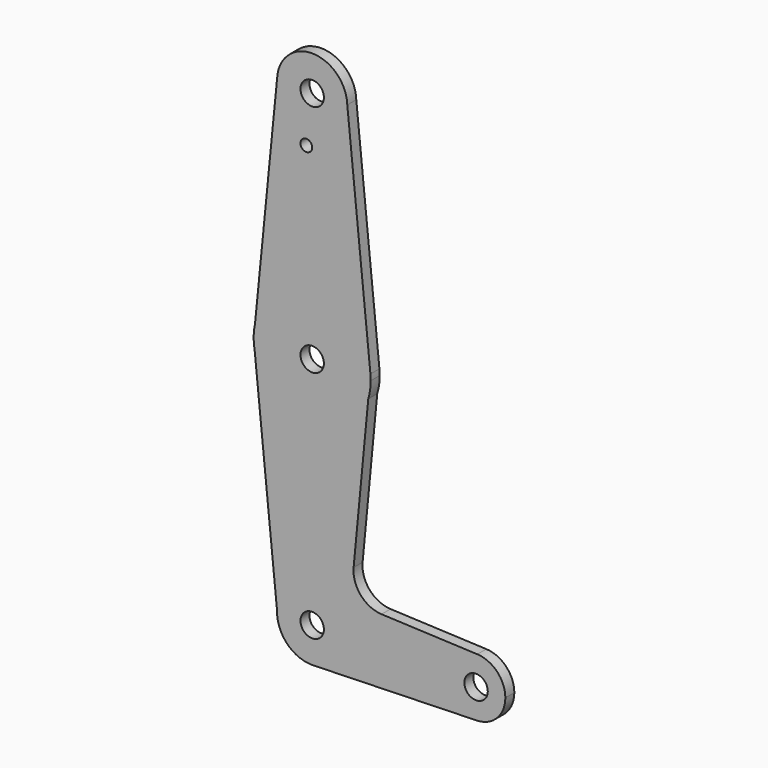
from build123d import *

# Parameters (mm, degrees)
F0_R     = 3.175
F0_R_2   = 1.5875
F1_DEPTH = 3.048


with BuildPart() as f1:
    # F0 (on Front) → F1 (new body)
    with BuildSketch(Plane.XZ):
        with BuildLine():
            ThreePointArc((-9.5097297278, 100.1845862784), (-0.2696751221, 90.1242705795), (9.525, 99.6454522461))
            ThreePointArc((9.525, 99.6454522461), (9.5238201928, 99.7953653394), (9.5202810634, 99.9452412949))
            ThreePointArc((9.5202810634, 99.9452412949), (0.1197887221, 109.1696989702), (-9.5097297278, 100.1845862784))
        make_face()
        with Locations((0, 99.6454522461)):
            Circle(F0_R, mode=Mode.SUBTRACT)
        with BuildLine():
            ThreePointArc((9.5202810634, 99.9452412949), (9.5238201928, 99.7953653394), (9.525, 99.6454522461))
            ThreePointArc((9.525, 99.6454522461), (-0.2696751221, 90.1242705795), (-9.5097297278, 100.1845862784))
            Line((-9.5097297278, 100.1845862784), (-15.5077525398, 39.540336068))
            ThreePointArc((-15.5077525398, 39.540336068), (0.9122205372, 51.9942212422), (15.7948542636, 37.7386263705))
            Line((15.7948542636, 37.7386263705), (9.5202810634, 99.9452412949))
        make_face()
        with Locations((-1.5875, 86.6684019566)):
            Circle(F0_R_2, mode=Mode.SUBTRACT)
        with BuildLine():
            Line((15.2064214472, 31.5869029408), (15.7948542636, 37.7386263705))
            ThreePointArc((15.7948542636, 37.7386263705), (0.9122205372, 51.9942212422), (-15.5077525398, 39.540336068))
            Line((-15.5077525398, 39.540336068), (-15.8723283432, 35.854217003))
            Line((-15.8723283432, 35.854217003), (-15.610768577, 33.2610927966))
            ThreePointArc((-15.610768577, 33.2610927966), (-0.8611632068, 20.2938270003), (15.2064214472, 31.5869029408))
        make_face()
        with Locations((0, 36.1454522461)):
            Circle(F0_R, mode=Mode.SUBTRACT)
        with BuildLine():
            ThreePointArc((15.875, 36.1454522461), (15.8549509056, 36.9430466182), (15.7948542636, 37.7386263705))
            Line((15.7948542636, 37.7386263705), (15.2064214472, 31.5869029408))
            ThreePointArc((15.2064214472, 31.5869029408), (15.7069660577, 33.8417937943), (15.875, 36.1454522461))
        make_face()
        with BuildLine():
            Line((-15.8723283432, 35.854217003), (-15.5077525398, 39.540336068))
            ThreePointArc((-15.5077525398, 39.540336068), (-15.797918771, 37.7079462474), (-15.8723283432, 35.854217003))
        make_face()
        with BuildLine():
            Line((11.2344941696, -9.9372905003), (15.2064214472, 31.5869029408))
            ThreePointArc((15.2064214472, 31.5869029408), (-0.8611632068, 20.2938270003), (-15.610768577, 33.2610927966))
            Line((-15.610768577, 33.2610927966), (-9.5217535723, -27.1058835037))
            ThreePointArc((-9.5217535723, -27.1058835037), (0.1243427206, -17.8303593954), (9.525, -27.3545477539))
            ThreePointArc((9.525, -27.3545477539), (6.9227046125, -33.8968551334), (0.5377483785, -36.8643559371))
            Line((0.5377483785, -36.8643559371), (44.6741512192, -35.6174676663))
            ThreePointArc((44.6741512192, -35.6174676663), (36.5127135943, -27.6249029998), (44.7905380327, -19.7529415784))
            Line((44.7905380327, -19.7529415784), (18.8074885558, -18.6371783145))
            ThreePointArc((18.8074885558, -18.6371783145), (13.1519949788, -15.9141403429), (11.2344941696, -9.9372905003))
        make_face()
        with BuildLine():
            Line((-15.610768577, 33.2610927966), (-15.8723283432, 35.854217003))
            ThreePointArc((-15.8723283432, 35.854217003), (-15.7948542636, 34.5522781217), (-15.610768577, 33.2610927966))
        make_face()
        with BuildLine():
            ThreePointArc((9.525, -27.3545477539), (0.1243427206, -17.8303593954), (-9.5217535723, -27.1058835037))
            ThreePointArc((-9.5217535723, -27.1058835037), (-6.8225417545, -34.0012423466), (0, -36.8795477539))
            Line((0, -36.8795477539), (0.5377483785, -36.8643559371))
            ThreePointArc((0.5377483785, -36.8643559371), (6.9227046125, -33.8968551334), (9.525, -27.3545477539))
        make_face()
        with Locations((0, -27.3545477539)):
            Circle(F0_R, mode=Mode.SUBTRACT)
        with BuildLine():
            Line((0.5377483785, -36.8643559371), (0, -36.8795477539))
            ThreePointArc((0, -36.8795477539), (0.2689814631, -36.8757490422), (0.5377483785, -36.8643559371))
        make_face()
        with BuildLine():
            ThreePointArc((52.3875, -27.6831332594), (50.1817940858, -22.1921913723), (44.7905380327, -19.7529415784))
            ThreePointArc((44.7905380327, -19.7529415784), (36.5127135943, -27.6249029998), (44.6741512192, -35.6174676663))
            ThreePointArc((44.6741512192, -35.6174676663), (50.1413577709, -33.2159763779), (52.3875, -27.6831332594))
        make_face()
        with Locations((44.45, -27.6831332594)):
            Circle(F0_R, mode=Mode.SUBTRACT)
    extrude(amount=F1_DEPTH)


solid = f1.part
